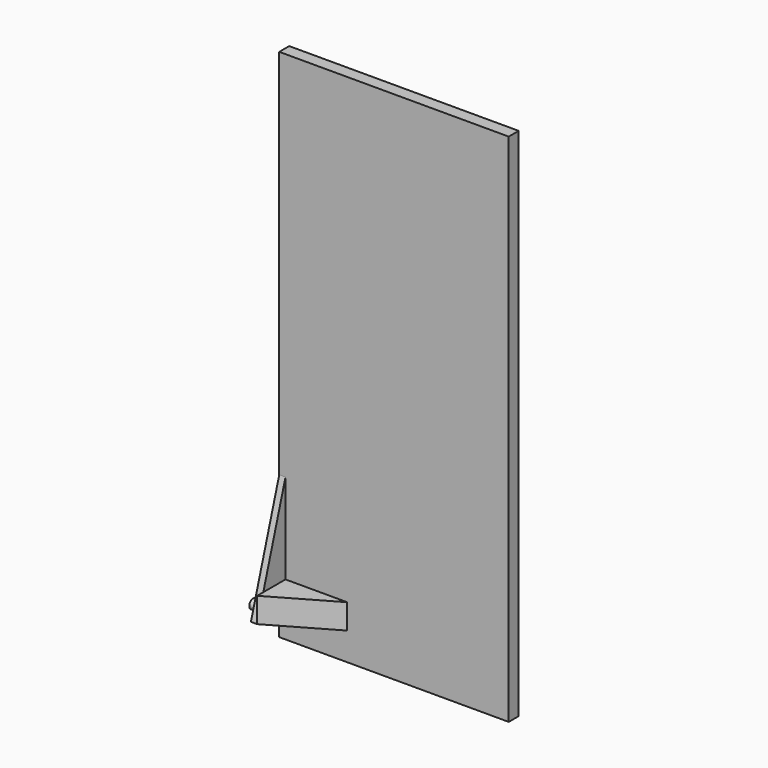
from build123d import *

# Parameters (mm, degrees)
F0_W     = 18.384803
F0_H     = 41.279539
F1_DEPTH = 1
F3_DEPTH = 0.5
F4_R     = 0.375
F5_DEPTH = 0.5
F7_DEPTH = 2


with BuildPart() as f1:
    # F0 (on Front) → F1 (new body)
    with BuildSketch(Plane.XZ):
        with Locations((-9.192401, 20.639769)):
            Rectangle(F0_W, F0_H)
    extrude(amount=F1_DEPTH)

    # F2 (on face) → F3 (join)
    with BuildSketch(Plane(origin=(-18.384803, 0, 0), x_dir=(0, -1, 0), z_dir=(-1, 0, 0))):
        Polygon((1, 11.451022), (1, 2.23353), (3.837694, 2.23353), align=None)
    extrude(amount=-F3_DEPTH)

    # F4 (on face) → F5 (join)
    with BuildSketch(Plane(origin=(-18.384803, 0, 0), x_dir=(0, -1, 0), z_dir=(-1, 0, 0))):
        with Locations((3, 3)):
            Circle(F4_R)
    extrude(amount=F5_DEPTH)

    # F6 (on face) → F7 (join)
    with BuildSketch(Plane(origin=(0, 0, 2.23353), x_dir=(1, 0, 0), z_dir=(0, 0, -1))):
        Polygon((-12.790374, 0.915015), (-17.884803, 3.837694), (-17.884803, 1), (-17.884803, 0.455235), align=None)
    extrude(amount=-F7_DEPTH)


solid = f1.part
